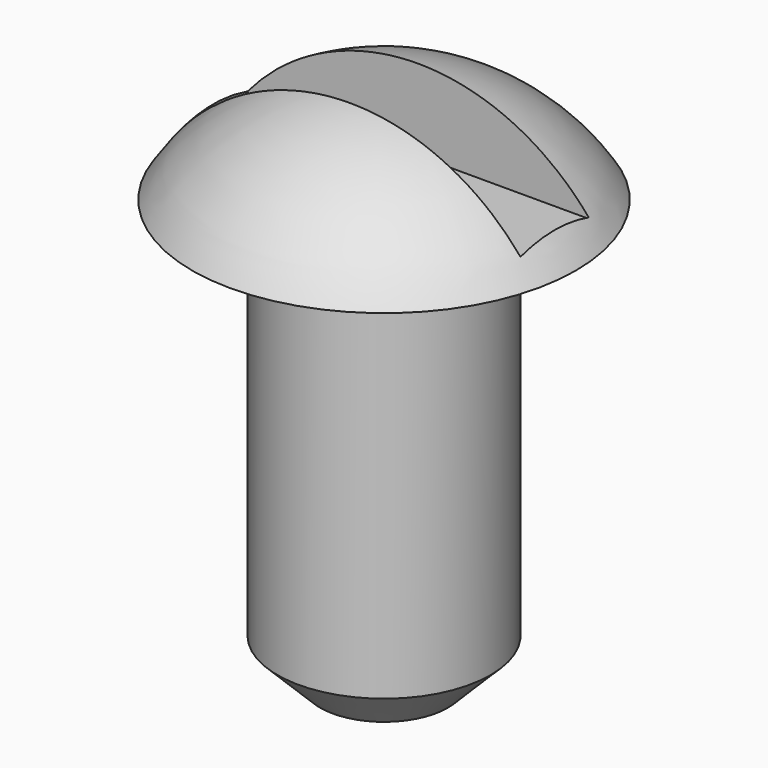
from build123d import *

# Parameters (mm, degrees)
F2_SIZE  = 1.27
F4_W     = 10.16
F4_H     = 2.54
F5_DEPTH = 2.541


with BuildPart() as f1:
    # F0 (on Front) → F1 (revolve)
    with BuildSketch(Plane.XZ):
        with BuildLine():
            Line((0, 15.875), (0, 0))
            Line((0, 0), (3.175, 0))
            Line((3.175, 0), (3.175, 12.7))
            Line((3.175, 12.7), (5.715, 12.7))
            ThreePointArc((5.715, 12.7), (3.266493, 15.023688), (0, 15.875))
        make_face()
    revolve(axis=Axis((0, 0, 7.9375), (0, 0, 1)))

    # F2
    f2_edges = [f1.edges().sort_by_distance(p)[0] for p in [
        (-3.175, 0, 0),
    ]]
    chamfer(f2_edges, length=F2_SIZE)

    # F4 (on offset) → F5 (cut, through all)
    with BuildSketch(Plane(origin=(0, 0, 13.335), x_dir=(1, 0, 0), z_dir=(0, 0, -1))):
        Rectangle(F4_W, F4_H)
    extrude(amount=-F5_DEPTH, mode=Mode.SUBTRACT)


solid = f1.part
